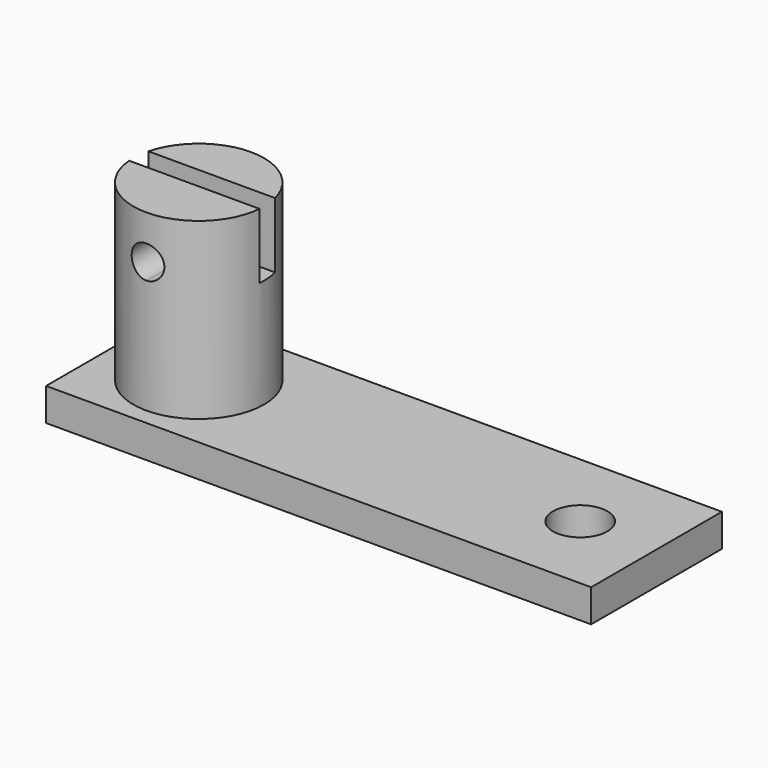
from build123d import *

# Parameters (mm, degrees)
F0_W     = 50
F0_H     = 15
F0_R     = 6
F0_R_2   = 2.5
F1_DEPTH = 3
F2_R     = 6
F3_DEPTH = 19
F6_DEPTH = 6
F9_DEPTH = 25


with BuildPart() as f1:
    # F0 (on Top) → F1 (new body)
    with BuildSketch(Plane.XY):
        with Locations((25, 7.5)):
            Rectangle(F0_W, F0_H)
        with Locations((8, 7.5)):
            Circle(F0_R, mode=Mode.SUBTRACT)
        with Locations((43, 7.5)):
            Circle(F0_R_2, mode=Mode.SUBTRACT)
        with Locations((8, 7.5)):
            Circle(F0_R)
    extrude(amount=F1_DEPTH)

    # F2 (on Top) → F3 (join)
    with BuildSketch(Plane.XY):
        with Locations((8, 7.5)):
            Circle(F2_R)
    extrude(amount=F3_DEPTH)

    # F5 (on offset) → F6 (cut)
    with BuildSketch(Plane.XY.offset(19)):
        Polygon((0, 8), (0, 7), (14.8029690608, 7), (14.8029690608, 8.9999996126), (0, 8.9999996126), align=None)
    extrude(amount=-F6_DEPTH, mode=Mode.SUBTRACT)

    # F8 (on offset) → F9 (cut)
    with BuildSketch(Plane.XZ):
        with BuildLine():
            ThreePointArc((8, 13.5), (9.0606601718, 13.9393398282), (9.5, 15))
            ThreePointArc((9.5, 15), (6.9393398282, 16.0606601718), (8, 13.5))
        make_face()
    extrude(amount=-F9_DEPTH, mode=Mode.SUBTRACT)


solid = f1.part
